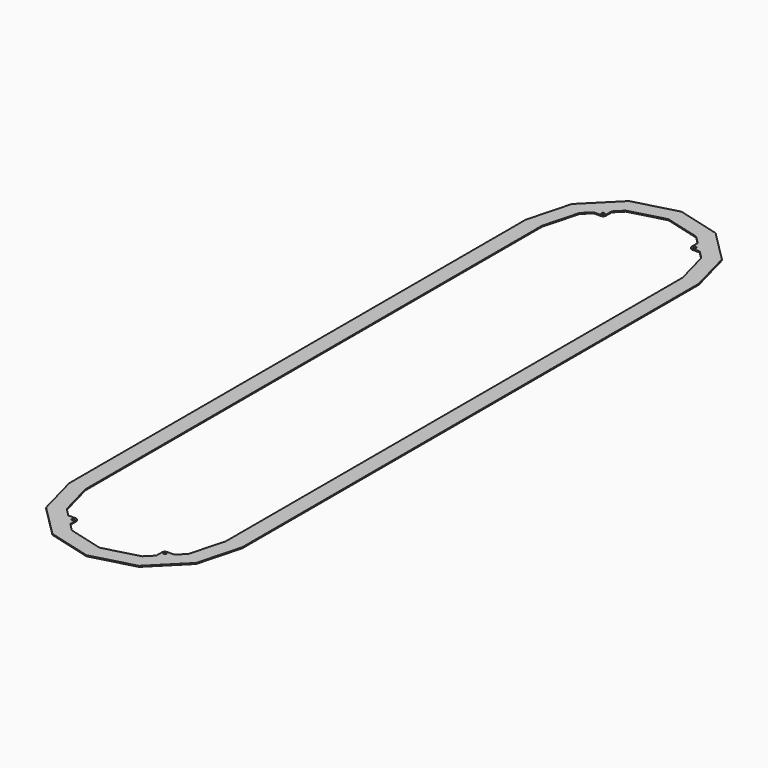
from build123d import *

# Parameters (mm, degrees)
F1_DEPTH = 1.5875
F3_DEPTH = 1.5875
F4_R     = 2.15265
F5_DEPTH = 1.5875


with BuildPart() as f1:
    # F0 (on Top) → F1 (new body)
    with BuildSketch(Plane.XY):
        Polygon((279.4, -920.6744858), (279.4, 0), (260.6837489087, 69.85), (209.55, 120.9837489087), (139.7, 139.7), (69.85, 120.9837489087), (18.7162510913, 69.85), (0, 0), (0, -920.6744858), (18.7162510913, -990.5244858), (69.85, -1041.6582347087), (139.7, -1060.3744858), (209.55, -1041.6582347087), (260.6837489087, -990.5244858), align=None)
    extrude(amount=F1_DEPTH)

    # F2 (on face) → F3 (cut, through all)
    with BuildSketch(Plane.XY.offset(1.5875)):
        Polygon((253.1039850176, -920.6744858), (253.1039850176, 0), (237.9107319156, 56.7019925088), (196.4019925088, 98.2107319156), (139.7, 113.4039850176), (82.9980074912, 98.2107319156), (41.4892680844, 56.7019925088), (26.2960149824, 0), (26.2960149824, -920.6744858), (41.4892680844, -977.3764783088), (82.9980074912, -1018.8852177156), (139.7, -1034.0784708176), (196.4019925088, -1018.8852177156), (237.9107319156, -977.3764783088), align=None)
    extrude(amount=-F3_DEPTH, mode=Mode.SUBTRACT)

    # F4 (on face) → F5 (join, through all)
    with BuildSketch(Plane.XY.offset(1.5875)):
        with BuildLine():
            Line((225.2864582576, 69.3262661668), (209.0262661668, 85.5864582576))
            Line((209.0262661668, 85.5864582576), (209.0262661668, 74.0887661668))
            ThreePointArc((209.0262661668, 74.0887661668), (210.4211701214, 70.7211701214), (213.7887661668, 69.3262661668))
            Line((213.7887661668, 69.3262661668), (225.2864582576, 69.3262661668))
        make_face()
        with Locations((213.7887661668, 74.0887661668)):
            Circle(F4_R, mode=Mode.SUBTRACT)
        with BuildLine():
            ThreePointArc((65.6112338332, 69.3262661668), (68.9788298786, 70.7211701214), (70.3737338332, 74.0887661668))
            Line((70.3737338332, 74.0887661668), (70.3737338332, 85.5864582576))
            Line((70.3737338332, 85.5864582576), (54.1135417424, 69.3262661668))
            Line((54.1135417424, 69.3262661668), (65.6112338332, 69.3262661668))
        make_face()
        with Locations((65.6112338332, 74.0887661668)):
            Circle(F4_R, mode=Mode.SUBTRACT)
        with BuildLine():
            Line((65.6112338332, -990.0007519668), (54.1135417424, -990.0007519668))
            Line((54.1135417424, -990.0007519668), (70.3737338332, -1006.2609440576))
            Line((70.3737338332, -1006.2609440576), (70.3737338332, -994.7632519668))
            ThreePointArc((70.3737338332, -994.7632519668), (68.9788298786, -991.3956559214), (65.6112338332, -990.0007519668))
        make_face()
        with Locations((65.6112338332, -994.7632519668)):
            Circle(F4_R, mode=Mode.SUBTRACT)
        with BuildLine():
            Line((209.0262661668, -1006.2609440576), (225.2864582576, -990.0007519668))
            Line((225.2864582576, -990.0007519668), (213.7887661668, -990.0007519668))
            ThreePointArc((213.7887661668, -990.0007519668), (210.4211701214, -991.3956559214), (209.0262661668, -994.7632519668))
            Line((209.0262661668, -994.7632519668), (209.0262661668, -1006.2609440576))
        make_face()
        with Locations((213.7887661668, -994.7632519668)):
            Circle(F4_R, mode=Mode.SUBTRACT)
    extrude(amount=-F5_DEPTH)


solid = f1.part
